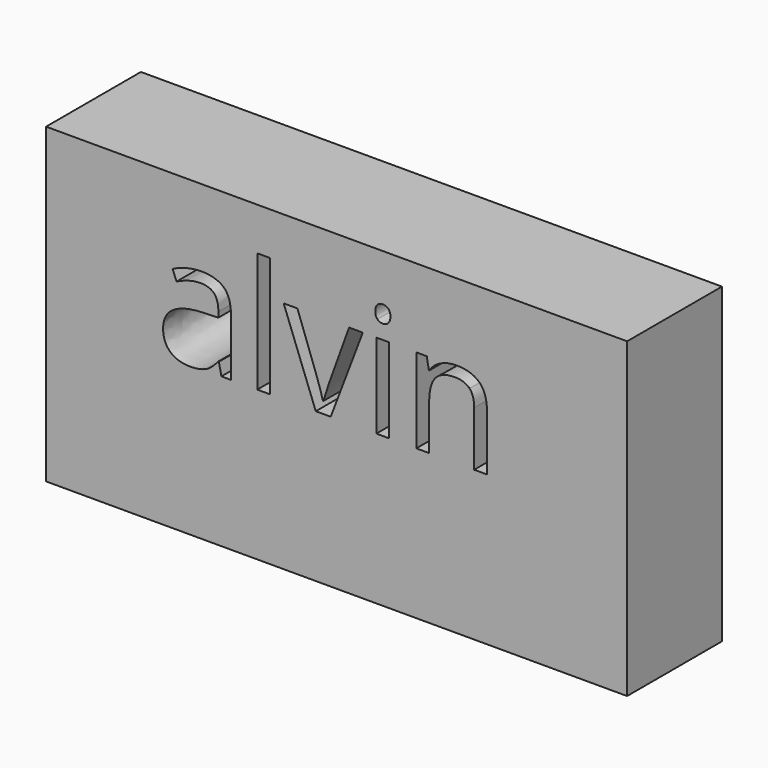
from build123d import *

# Parameters (mm, degrees)
F1_W     = 122.6013228297
F1_H     = 65.9010410309
F1_W_2   = 2.7029693592
F1_H_2   = 25.326666655
F1_H_3   = 17.8375145576
F2_DEPTH = 25


with BuildPart() as f2:
    # F1 (on face) → F2 (new body)
    with BuildSketch(Plane.XZ):
        with Locations((61.3006614149, 32.9505205154)):
            Rectangle(F1_W, F1_H)
        with BuildLine():
            Line((39.001939275, 31.5462090075), (36.9968463977, 31.5462090075))
            Line((36.9968463977, 31.5462090075), (36.4604189526, 34.0877293299))
            Line((36.4604189526, 34.0877293299), (36.3302181164, 34.0877293299))
            add(Edge.make_bspline(
                [(36.3302181164, 34.0877293299), (34.9969615539, 32.4107425598), (33.6715170415, 31.81442273)],
                knots=[0, 0, 0, 1, 1, 1], degree=2))
            add(Edge.make_bspline(
                [(33.6715170415, 31.81442273), (32.3460725291, 31.2181029003), (30.3566037522, 31.2181029003)],
                knots=[0, 0, 0, 1, 1, 1], degree=2))
            add(Edge.make_bspline(
                [(30.3566037522, 31.2181029003), (27.7057147274, 31.2181029003), (26.2005930611, 32.587815697)],
                knots=[0, 0, 0, 1, 1, 1], degree=2))
            add(Edge.make_bspline(
                [(26.2005930611, 32.587815697), (24.6954713948, 33.9575284937), (24.6954713948, 36.4782166823)],
                knots=[0, 0, 0, 1, 1, 1], degree=2))
            add(Edge.make_bspline(
                [(24.6954713948, 36.4782166823), (24.6954713948, 41.8789473673), (33.3355988842, 42.1393490396)],
                knots=[0, 0, 0, 1, 1, 1], degree=2))
            Line((33.3355988842, 42.1393490396), (36.3614663171, 42.2383016751))
            Line((36.3614663171, 42.2383016751), (36.3614663171, 43.3476127995))
            add(Edge.make_bspline(
                [(36.3614663171, 43.3476127995), (36.3614663171, 45.4464502788), (35.4604765307, 46.4463927007)],
                knots=[0, 0, 0, 1, 1, 1], degree=2))
            add(Edge.make_bspline(
                [(35.4604765307, 46.4463927007), (34.5594867443, 47.4463351226), (32.5700179674, 47.4463351226)],
                knots=[0, 0, 0, 1, 1, 1], degree=2))
            add(Edge.make_bspline(
                [(32.5700179674, 47.4463351226), (30.3409796519, 47.4463351226), (27.5286415902, 46.0818303594)],
                knots=[0, 0, 0, 1, 1, 1], degree=2))
            Line((27.5286415902, 46.0818303594), (26.6953562386, 48.149419638))
            add(Edge.make_bspline(
                [(26.6953562386, 48.149419638), (28.0129887008, 48.8629202203), (29.5832107853, 49.2691468292)],
                knots=[0, 0, 0, 1, 1, 1], degree=2))
            add(Edge.make_bspline(
                [(29.5832107853, 49.2691468292), (31.1534328697, 49.6753734381), (32.7366750377, 49.6753734381)],
                knots=[0, 0, 0, 1, 1, 1], degree=2))
            add(Edge.make_bspline(
                [(32.7366750377, 49.6753734381), (35.9239915075, 49.6753734381), (37.4629653913, 48.2613923571)],
                knots=[0, 0, 0, 1, 1, 1], degree=2))
            add(Edge.make_bspline(
                [(37.4629653913, 48.2613923571), (39.001939275, 46.8474112762), (39.001939275, 43.7225912077)],
                knots=[0, 0, 0, 1, 1, 1], degree=2))
            Line((39.001939275, 43.7225912077), (39.001939275, 31.5462090075))
        make_face(mode=Mode.SUBTRACT)
        with BuildLine():
            Line((60.0580185031, 31.5462090075), (56.9019502339, 31.5462090075))
            Line((56.9019502339, 31.5462090075), (50.1315067522, 49.3837235651))
            Line((50.1315067522, 49.3837235651), (53.027173349, 49.3837235651))
            Line((53.027173349, 49.3837235651), (56.8707020332, 38.8062076333))
            add(Edge.make_bspline(
                [(56.8707020332, 38.8062076333), (58.1727103951, 35.0928797852), (58.4018638668, 33.9887766944)],
                knots=[0, 0, 0, 1, 1, 1], degree=2))
            Line((58.4018638668, 33.9887766944), (58.532064703, 33.9887766944))
            add(Edge.make_bspline(
                [(58.532064703, 33.9887766944), (58.7091378402, 34.8481022132), (59.6622079611, 37.5588836226)],
                knots=[0, 0, 0, 1, 1, 1], degree=2))
            add(Edge.make_bspline(
                [(59.6622079611, 37.5588836226), (60.615278082, 40.269665032), (63.932795388, 49.3837235651)],
                knots=[0, 0, 0, 1, 1, 1], degree=2))
            Line((63.932795388, 49.3837235651), (66.8284619848, 49.3837235651))
            Line((66.8284619848, 49.3837235651), (60.0580185031, 31.5462090075))
        make_face(mode=Mode.SUBTRACT)
        with Locations((45.9156036765, 44.209542335)):
            Rectangle(F1_W_2, F1_H_2, mode=Mode.SUBTRACT)
        with Locations((71.0443650605, 40.4649662863)):
            Rectangle(F1_W_2, F1_H_3, mode=Mode.SUBTRACT)
        with BuildLine():
            Line((93.0352862924, 31.5462090075), (90.3323169332, 31.5462090075))
            Line((90.3323169332, 31.5462090075), (90.3323169332, 43.0872111271))
            add(Edge.make_bspline(
                [(90.3323169332, 43.0872111271), (90.3323169332, 45.2641691081), (89.3401865615, 46.339628015)],
                knots=[0, 0, 0, 1, 1, 1], degree=2))
            add(Edge.make_bspline(
                [(89.3401865615, 46.339628015), (88.3480561897, 47.4150869219), (86.2283865766, 47.4150869219)],
                knots=[0, 0, 0, 1, 1, 1], degree=2))
            add(Edge.make_bspline(
                [(86.2283865766, 47.4150869219), (83.4316726153, 47.4150869219), (82.1296642534, 45.9021532054)],
                knots=[0, 0, 0, 1, 1, 1], degree=2))
            add(Edge.make_bspline(
                [(82.1296642534, 45.9021532054), (80.8276558916, 44.3892194889), (80.8276558916, 40.9050451126)],
                knots=[0, 0, 0, 1, 1, 1], degree=2))
            Line((80.8276558916, 40.9050451126), (80.8276558916, 31.5462090075))
            Line((80.8276558916, 31.5462090075), (78.1246865323, 31.5462090075))
            Line((78.1246865323, 31.5462090075), (78.1246865323, 49.3837235651))
            Line((78.1246865323, 49.3837235651), (80.3224766472, 49.3837235651))
            Line((80.3224766472, 49.3837235651), (80.7599514568, 46.9411558782))
            Line((80.7599514568, 46.9411558782), (80.8901522929, 46.9411558782))
            add(Edge.make_bspline(
                [(80.8901522929, 46.9411558782), (81.7234376445, 48.2587883404), (83.2207472607, 48.9853090063)],
                knots=[0, 0, 0, 1, 1, 1], degree=2))
            add(Edge.make_bspline(
                [(83.2207472607, 48.9853090063), (84.7180568768, 49.7118296723), (86.5564926838, 49.7118296723)],
                knots=[0, 0, 0, 1, 1, 1], degree=2))
            add(Edge.make_bspline(
                [(86.5564926838, 49.7118296723), (89.7802653878, 49.7118296723), (91.4077758401, 48.1572316882)],
                knots=[0, 0, 0, 1, 1, 1], degree=2))
            add(Edge.make_bspline(
                [(91.4077758401, 48.1572316882), (93.0352862924, 46.6026337041), (93.0352862924, 43.1809557291)],
                knots=[0, 0, 0, 1, 1, 1], degree=2))
            Line((93.0352862924, 43.1809557291), (93.0352862924, 31.5462090075))
        make_face(mode=Mode.SUBTRACT)
        with BuildLine():
            add(Edge.make_bspline(
                [(69.9194298359, 52.8574818745), (69.4637269092, 53.305372751), (69.4637269092, 54.2167786043)],
                knots=[0, 0, 0, 1, 1, 1], degree=2))
            add(Edge.make_bspline(
                [(69.4637269092, 54.2167786043), (69.4637269092, 55.143808558), (69.9194298359, 55.5760753341)],
                knots=[0, 0, 0, 1, 1, 1], degree=2))
            add(Edge.make_bspline(
                [(69.9194298359, 55.5760753341), (70.3751327625, 56.0083421102), (71.0625931776, 56.0083421102)],
                knots=[0, 0, 0, 1, 1, 1], degree=2))
            add(Edge.make_bspline(
                [(71.0625931776, 56.0083421102), (71.7135973585, 56.0083421102), (72.1849243855, 55.5682632839)],
                knots=[0, 0, 0, 1, 1, 1], degree=2))
            add(Edge.make_bspline(
                [(72.1849243855, 55.5682632839), (72.6562514125, 55.1281844576), (72.6562514125, 54.2167786043)],
                knots=[0, 0, 0, 1, 1, 1], degree=2))
            add(Edge.make_bspline(
                [(72.6562514125, 54.2167786043), (72.6562514125, 53.305372751), (72.1849243855, 52.8574818745)],
                knots=[0, 0, 0, 1, 1, 1], degree=2))
            add(Edge.make_bspline(
                [(72.1849243855, 52.8574818745), (71.7135973585, 52.409590998), (71.0625931776, 52.409590998)],
                knots=[0, 0, 0, 1, 1, 1], degree=2))
            add(Edge.make_bspline(
                [(71.0625931776, 52.409590998), (70.3751327625, 52.409590998), (69.9194298359, 52.8574818745)],
                knots=[0, 0, 0, 1, 1, 1], degree=2))
        make_face(mode=Mode.SUBTRACT)
    extrude(amount=F2_DEPTH)


solid = f2.part
